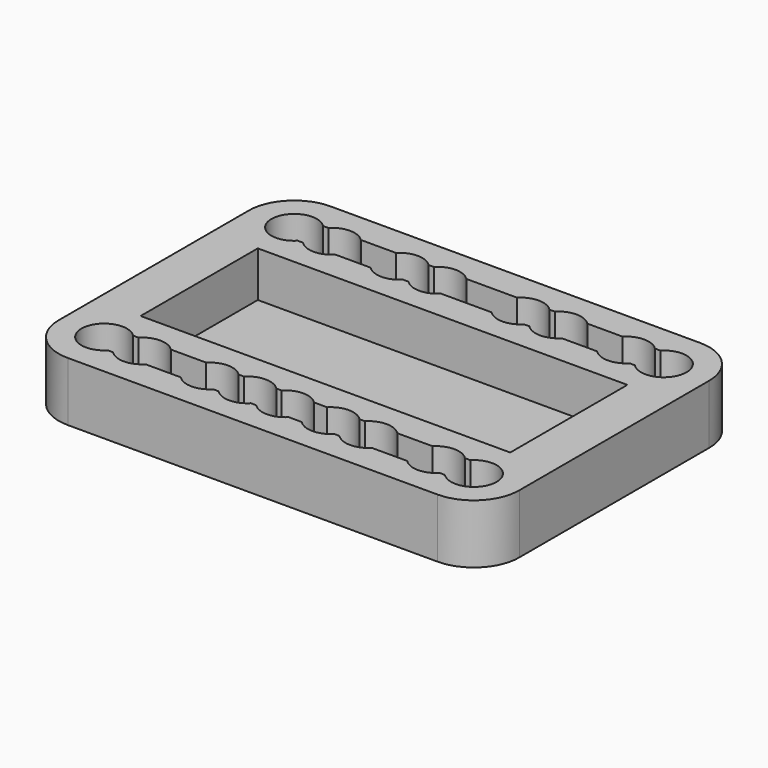
from build123d import *

# Parameters (mm, degrees)
F1_DEPTH = 10
F3_DEPTH = 3


with BuildPart() as f1:
    # F0 (on Top) → F1 (new body)
    with BuildSketch(Plane.XY):
        with BuildLine():
            Line((81.289, 10), (0, 10))
            ThreePointArc((0, 10), (-7.071068, 7.071068), (-10, 0))
            Line((-10, 0), (-10, -26.108))
            Line((-10, -26.108), (-10, -52.216))
            ThreePointArc((-10, -52.216), (-7.071068, -59.287068), (0, -62.216))
            Line((0, -62.216), (81.289, -62.216))
            ThreePointArc((81.289, -62.216), (88.360068, -59.287068), (91.289, -52.216))
            Line((91.289, -52.216), (91.289, -26.108))
            Line((91.289, -26.108), (91.289, 0))
            ThreePointArc((91.289, 0), (88.360068, 7.071068), (81.289, 10))
        make_face()
        with BuildLine():
            ThreePointArc((3.570714, -55.716), (-5, -52.216), (3.570714, -48.716))
            Line((3.570714, -48.716), (4.728286, -48.716))
            ThreePointArc((4.728286, -48.716), (8.299, -47.216), (11.869714, -48.716))
            Line((11.869714, -48.716), (19.625286, -48.716))
            ThreePointArc((19.625286, -48.716), (23.196, -47.216), (26.766714, -48.716))
            Line((26.766714, -48.716), (27.924286, -48.716))
            ThreePointArc((27.924286, -48.716), (31.495, -47.216), (35.065714, -48.716))
            Line((35.065714, -48.716), (36.223286, -48.716))
            ThreePointArc((36.223286, -48.716), (39.794, -47.216), (43.364714, -48.716))
            Line((43.364714, -48.716), (46.223286, -48.716))
            ThreePointArc((46.223286, -48.716), (49.794, -47.216), (53.364714, -48.716))
            Line((53.364714, -48.716), (54.522286, -48.716))
            ThreePointArc((54.522286, -48.716), (58.093, -47.216), (61.663714, -48.716))
            Line((61.663714, -48.716), (69.419286, -48.716))
            ThreePointArc((69.419286, -48.716), (72.99, -47.216), (76.560714, -48.716))
            Line((76.560714, -48.716), (77.718286, -48.716))
            ThreePointArc((77.718286, -48.716), (83.179295, -47.587092), (86.289, -52.216))
            ThreePointArc((86.289, -52.216), (83.179295, -56.844908), (77.718286, -55.716))
            Line((77.718286, -55.716), (76.560714, -55.716))
            ThreePointArc((76.560714, -55.716), (72.99, -57.216), (69.419286, -55.716))
            Line((69.419286, -55.716), (61.663714, -55.716))
            ThreePointArc((61.663714, -55.716), (58.093, -57.216), (54.522286, -55.716))
            Line((54.522286, -55.716), (53.364714, -55.716))
            ThreePointArc((53.364714, -55.716), (49.794, -57.216), (46.223286, -55.716))
            Line((46.223286, -55.716), (43.364714, -55.716))
            ThreePointArc((43.364714, -55.716), (39.794, -57.216), (36.223286, -55.716))
            Line((36.223286, -55.716), (35.065714, -55.716))
            ThreePointArc((35.065714, -55.716), (31.495, -57.216), (27.924286, -55.716))
            Line((27.924286, -55.716), (26.766714, -55.716))
            ThreePointArc((26.766714, -55.716), (23.196, -57.216), (19.625286, -55.716))
            Line((19.625286, -55.716), (11.869714, -55.716))
            ThreePointArc((11.869714, -55.716), (8.299, -57.216), (4.728286, -55.716))
            Line((4.728286, -55.716), (3.570714, -55.716))
        make_face(mode=Mode.SUBTRACT)
        Polygon((0, -42.216), (0, -26.108), (0, -10), (81.289, -10), (81.289, -26.108), (81.289, -42.216), align=None, mode=Mode.SUBTRACT)
        with BuildLine():
            ThreePointArc((3.570714, -3.5), (-5, 0), (3.570714, 3.5))
            Line((3.570714, 3.5), (4.728286, 3.5))
            ThreePointArc((4.728286, 3.5), (8.299, 5), (11.869714, 3.5))
            Line((11.869714, 3.5), (19.625286, 3.5))
            ThreePointArc((19.625286, 3.5), (23.196, 5), (26.766714, 3.5))
            Line((26.766714, 3.5), (27.924286, 3.5))
            ThreePointArc((27.924286, 3.5), (31.495, 5), (35.065714, 3.5))
            Line((35.065714, 3.5), (46.223286, 3.5))
            ThreePointArc((46.223286, 3.5), (49.794, 5), (53.364714, 3.5))
            Line((53.364714, 3.5), (54.522286, 3.5))
            ThreePointArc((54.522286, 3.5), (58.093, 5), (61.663714, 3.5))
            Line((61.663714, 3.5), (69.419286, 3.5))
            ThreePointArc((69.419286, 3.5), (72.99, 5), (76.560714, 3.5))
            Line((76.560714, 3.5), (77.718286, 3.5))
            ThreePointArc((77.718286, 3.5), (83.179295, 4.628908), (86.289, 0))
            ThreePointArc((86.289, 0), (83.179295, -4.628908), (77.718286, -3.5))
            Line((77.718286, -3.5), (76.560714, -3.5))
            ThreePointArc((76.560714, -3.5), (72.99, -5), (69.419286, -3.5))
            Line((69.419286, -3.5), (61.663714, -3.5))
            ThreePointArc((61.663714, -3.5), (58.093, -5), (54.522286, -3.5))
            Line((54.522286, -3.5), (53.364714, -3.5))
            ThreePointArc((53.364714, -3.5), (49.794, -5), (46.223286, -3.5))
            Line((46.223286, -3.5), (35.065714, -3.5))
            ThreePointArc((35.065714, -3.5), (31.495, -5), (27.924286, -3.5))
            Line((27.924286, -3.5), (26.766714, -3.5))
            ThreePointArc((26.766714, -3.5), (23.196, -5), (19.625286, -3.5))
            Line((19.625286, -3.5), (11.869714, -3.5))
            ThreePointArc((11.869714, -3.5), (8.299, -5), (4.728286, -3.5))
            Line((4.728286, -3.5), (3.570714, -3.5))
        make_face(mode=Mode.SUBTRACT)
    extrude(amount=F1_DEPTH)

    # F2 (on face) → F3 (join)
    with BuildSketch(Plane(origin=(0, 0, 0), x_dir=(1, 0, 0), z_dir=(0, 0, -1))):
        with BuildLine():
            ThreePointArc((0, 62.216), (-7.071068, 59.287068), (-10, 52.216))
            Line((-10, 52.216), (-10, 0))
            ThreePointArc((-10, 0), (-7.071068, -7.071068), (0, -10))
            Line((0, -10), (81.289, -10))
            ThreePointArc((81.289, -10), (88.360068, -7.071068), (91.289, 0))
            Line((91.289, 0), (91.289, 52.216))
            ThreePointArc((91.289, 52.216), (88.360068, 59.287068), (81.289, 62.216))
            Line((81.289, 62.216), (0, 62.216))
        make_face()
    extrude(amount=F3_DEPTH)


solid = f1.part
